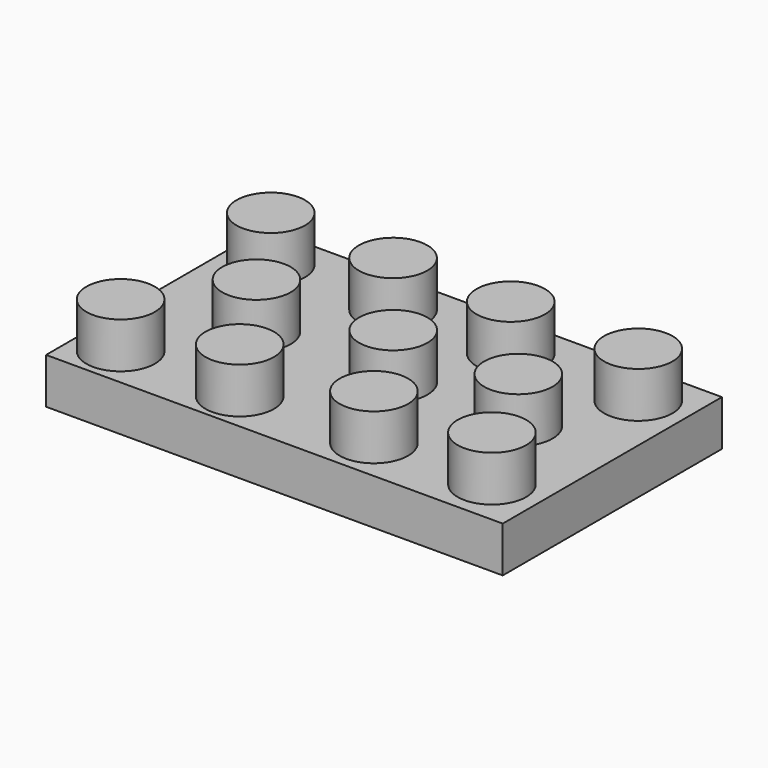
from build123d import *

# Parameters (mm, degrees)
F0_W     = 12.7
F0_H     = 7.62
F1_DEPTH = 1.27
F2_R     = 0.9525
F3_DEPTH = 1.27


with BuildPart() as f1:
    # F0 (on Top) → F1 (new body)
    with BuildSketch(Plane.XY):
        with Locations((-33.980827, -14.445953)):
            Rectangle(F0_W, F0_H)
    extrude(amount=F1_DEPTH)

    # F2 (on face) → F3 (join)
    with BuildSketch(Plane.XY.offset(1.27)):
        with Locations((-39.17207, -11.893066)):
            Circle(F2_R)
        with Locations((-35.771169, -11.893066)):
            Circle(F2_R)
        with Locations((-39.177176, -17.106527)):
            Circle(F2_R)
        with Locations((-32.181084, -17.046398)):
            Circle(F2_R)
        with Locations((-35.831764, -17.147632)):
            Circle(F2_R)
        with Locations((-32.492282, -11.899794)):
            Circle(F2_R)
        with Locations((-28.945394, -11.899794)):
            Circle(F2_R)
        with Locations((-28.966257, -16.962228)):
            Circle(F2_R)
        with Locations((-30.236004, -14.45742)):
            Circle(F2_R)
        with Locations((-37.451055, -14.541972)):
            Circle(F2_R)
        with Locations((-33.646241, -14.541972)):
            Circle(F2_R)
    extrude(amount=F3_DEPTH)


solid = f1.part
